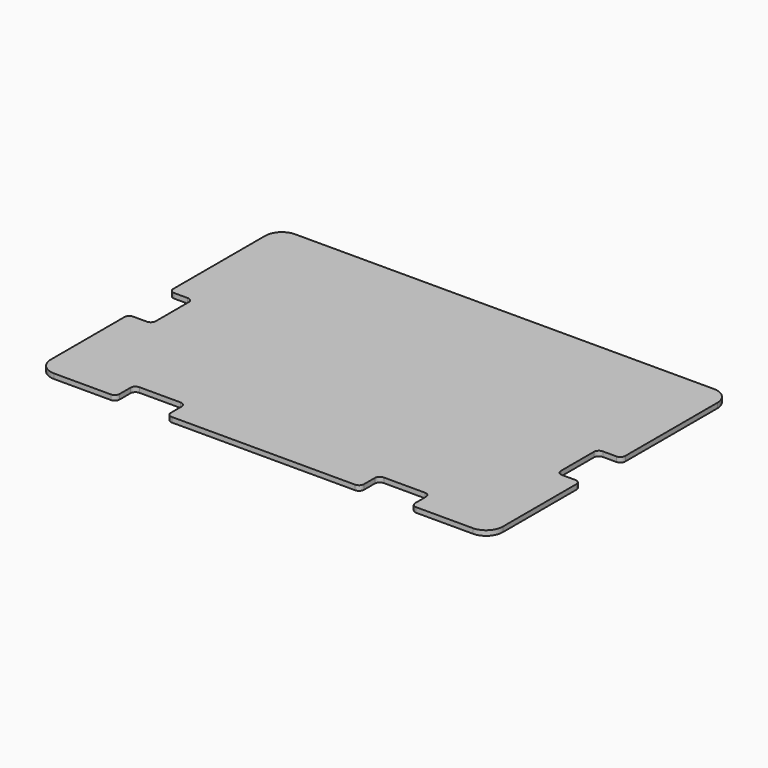
from build123d import *

# Parameters (mm, degrees)
PAD_DEPTH = 2
FILLET_R  = 2


with BuildPart() as part:
    # Sketch → Pad (new body)
    with BuildSketch(Plane.XY):
        with BuildLine():
            Line((-91.5, 56.984227), (-91.5, 8.434227))
            Line((-82, 8.434227), (-91.5, 8.434227))
            Line((-82, -12.265773), (-82, 8.434227))
            Line((-91.5, -12.265773), (-82, -12.265773))
            Line((-91.5, -12.265773), (-91.5, -51.515773))
            ThreePointArc((-91.5, -51.515773), (-89.522971, -56.288744), (-84.75, -58.265773))
            Line((-84.75, -58.265773), (-59.8, -58.265773))
            Line((-59.8, -48.765773), (-59.8, -58.265773))
            Line((-39.1, -48.765773), (-59.8, -48.765773))
            Line((-39.1, -58.265773), (-39.1, -48.765773))
            Line((-39.1, -58.265773), (39.1, -58.265773))
            Line((39.1, -48.765773), (39.1, -58.265773))
            Line((59.8, -48.765773), (39.1, -48.765773))
            Line((59.8, -58.265773), (59.8, -48.765773))
            Line((59.8, -58.265773), (84.75, -58.265773))
            ThreePointArc((84.75, -58.265773), (89.522971, -56.288744), (91.5, -51.515773))
            Line((91.5, -51.515773), (91.5, -12.265773))
            Line((82, -12.265773), (91.5, -12.265773))
            Line((82, 8.434227), (82, -12.265773))
            Line((91.5, 8.434227), (82, 8.434227))
            Line((91.5, 8.434227), (91.5, 56.984227))
            ThreePointArc((91.5, 56.984227), (89.522971, 61.757197), (84.75, 63.734227))
            Line((84.75, 63.734227), (-84.75, 63.734227))
            ThreePointArc((-84.75, 63.734227), (-89.522971, 61.757197), (-91.5, 56.984227))
        make_face()
    extrude(amount=PAD_DEPTH)

    # Fillet
    fillet_edges = [part.edges().sort_by_distance(p)[0] for p in [
        (-82, 8.434227, 1),
        (-91.5, 8.434227, 1),
        (-82, -12.265773, 1),
        (-91.5, -12.265773, 1),
        (-39.1, -48.765773, 1),
        (-59.8, -48.765773, 1),
        (39.1, -48.765773, 1),
        (-59.8, -58.265773, 1),
        (-39.1, -58.265773, 1),
        (39.1, -58.265773, 1),
        (59.8, -48.765773, 1),
        (59.8, -58.265773, 1),
        (82, 8.434227, 1),
        (91.5, 8.434227, 1),
        (91.5, -12.265773, 1),
        (82, -12.265773, 1),
    ]]
    fillet(fillet_edges, radius=FILLET_R)


solid = part.part
